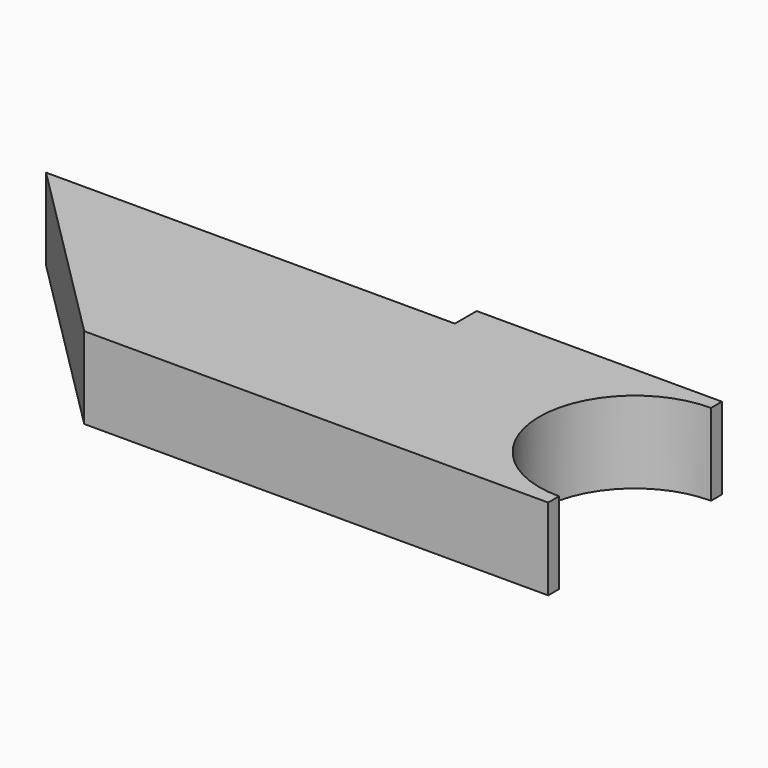
from build123d import *

# Parameters (mm, degrees)
F1_DEPTH = 7.5


with BuildPart() as f1:
    # F0 (on Top) → F1 (new body, symmetric)
    with BuildSketch(Plane.XY):
        with BuildLine():
            ThreePointArc((55.845342, -17.499589), (38.225579, -0.059933), (55.725477, 17.5))
            Line((55.725477, 17.5), (55.725477, 20))
            Line((55.725477, 20), (10.725477, 20))
            Line((10.725477, 20), (10.725477, 15))
            Line((10.725477, 15), (-64.274523, 15))
            Line((-64.274523, 15), (-29.274523, -20))
            Line((-29.274523, -20), (55.845342, -20))
            Line((55.845342, -20), (55.845342, -17.499589))
        make_face()
    extrude(amount=F1_DEPTH, both=True)


solid = f1.part
